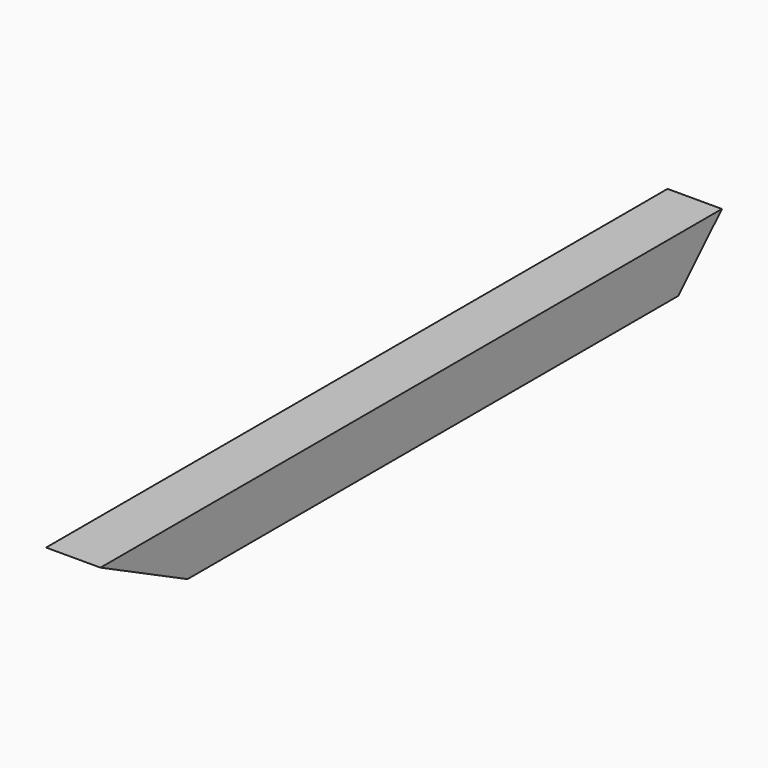
from build123d import *

# Parameters (mm, degrees)
F0_W     = 3.5
F0_H     = 50
F1_DEPTH = 3.5
F3_DEPTH = 3.501


with BuildPart() as f1:
    # F0 (on Top) → F1 (new body)
    with BuildSketch(Plane.XY):
        Rectangle(F0_W, F0_H)
    extrude(amount=F1_DEPTH)

    # F2 (on face) → F3 (cut, through all)
    with BuildSketch(Plane.YZ.offset(1.75)):
        Polygon((-17.9954, 0), (-25, 3.5), (-25, 0), align=None)
        Polygon((25, 0), (25, 3.5), (21.5, 0), align=None)
    extrude(amount=-F3_DEPTH, mode=Mode.SUBTRACT)


solid = f1.part
